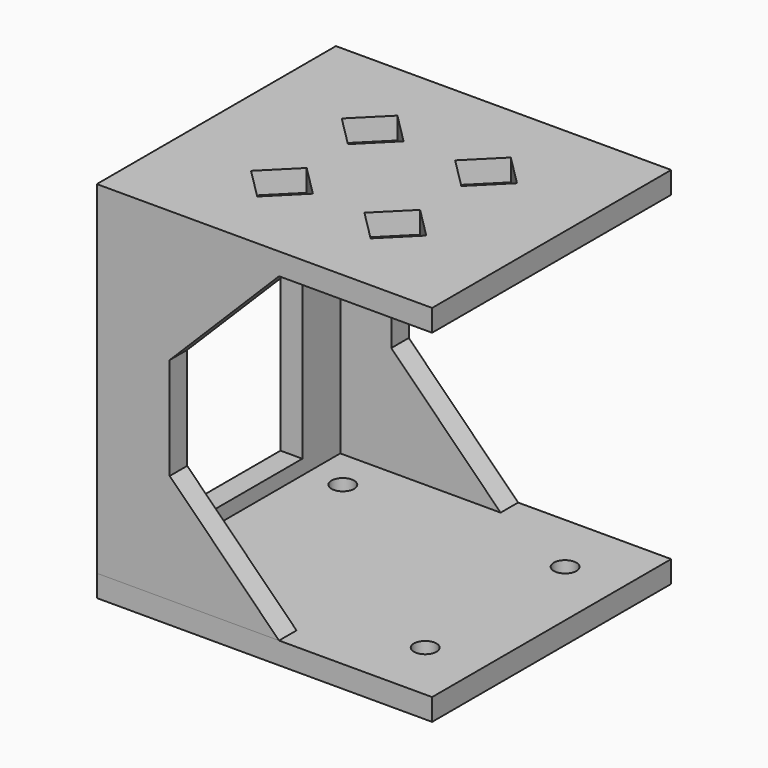
from build123d import *

# Parameters (mm, degrees)
SKETCH033_W     = 46
SKETCH033_H     = 41
PAD022_DEPTH    = 3
POCKET011_DEPTH = 5
PAD023_DEPTH    = 47
SKETCH036_W     = 46
SKETCH036_H     = 41
PAD024_DEPTH    = 3
SKETCH037_R     = 1.55
POCKET012_DEPTH = 5
POCKET013_DEPTH = 41.001
SKETCH039_W     = 22
SKETCH039_H     = 40
POCKET014_DEPTH = 5


with BuildPart() as part:
    # Sketch033 (on Face1 of Binder006) → Pad022 (new body)
    with BuildSketch(Plane(origin=(0, 0, 3.2), x_dir=(1, 0, 0), z_dir=(0, 0, -1))):
        with Locations((-83.6396103068, -83.6396103068)):
            Rectangle(SKETCH033_W, SKETCH033_H)
    extrude(amount=PAD022_DEPTH)

    # Sketch034 → Pocket011 (cut)
    with BuildSketch(Plane.XY):
        Polygon((-91.4177848998, 95.660425587), (-95.660425587, 91.4177848998), (-91.4177848998, 87.1751442127), (-87.1751442127, 91.4177848998), align=None)
        Polygon((-75.8614357137, 95.660425587), (-80.1040764009, 91.4177848998), (-75.8614357137, 87.1751442127), (-71.6187950266, 91.4177848998), align=None)
        Polygon((-91.4177848998, 80.1040764009), (-95.660425587, 75.8614357137), (-91.4177848998, 71.6187950266), (-87.1751442127, 75.8614357137), align=None)
        Polygon((-80.1040764009, 75.8614357137), (-75.8614357137, 71.6187950266), (-71.6187950266, 75.8614357137), (-75.8614357137, 80.1040764009), align=None)
    extrude(amount=POCKET011_DEPTH, mode=Mode.SUBTRACT)

    # Sketch035 (on Face5 of Pocket011) → Pad023 (join)
    with BuildSketch(Plane(origin=(0, 0, 0.2), x_dir=(1, 0, 0), z_dir=(0, 0, -1))):
        Polygon((-60.6396103068, -63.1396103068), (-106.6396103068, -63.1396103068), (-106.6396103068, -104.1396103068), (-60.6396103068, -104.1396103068), (-60.6396103068, -101.1396103068), (-103.6396103068, -101.1396103068), (-103.6396103068, -66.1396103068), (-60.6396103068, -66.1396103068), align=None)
    extrude(amount=PAD023_DEPTH)

    # Sketch036 (on Face20 of Pad023) → Pad024 (join)
    with BuildSketch(Plane(origin=(0, 0, -46.8), x_dir=(1, 0, 0), z_dir=(0, 0, -1))):
        with Locations((-83.63961, -83.63961)):
            Rectangle(SKETCH036_W, SKETCH036_H)
    extrude(amount=-PAD024_DEPTH)

    # Sketch037 (on Face27 of Pad024) → Pocket012 (cut)
    with BuildSketch(Plane(origin=(0, 0, -46.8), x_dir=(1, 0, 0), z_dir=(0, 0, -1))):
        with Locations((-98.8896103068, -71.6396103068)):
            Circle(SKETCH037_R)
        with Locations((-68.3896103068, -71.6396103068)):
            Circle(SKETCH037_R)
        with Locations((-98.8896103068, -95.6396103068)):
            Circle(SKETCH037_R)
        with Locations((-68.3896103068, -95.6396103068)):
            Circle(SKETCH037_R)
    extrude(amount=-POCKET012_DEPTH, mode=Mode.SUBTRACT)

    # Sketch038 (on Face27 of Pocket012) → Pocket013 (cut, through all)
    with BuildSketch(Plane(origin=(0, 104.1396103068, 0), x_dir=(-1, 0, 0), z_dir=(0, 1, 0))):
        Polygon((81.6396103068, 0.2), (59.6396103068, 0.2), (59.6396103068, -43.8), (81.6396103068, -43.8), (96.6396103068, -28.8), (96.6396103068, -14.8), align=None)
    extrude(amount=-POCKET013_DEPTH, mode=Mode.SUBTRACT)

    # Sketch039 (on Face30 of Pocket013) → Pocket014 (cut)
    with BuildSketch(Plane(origin=(-106.6396103068, 0, 0), x_dir=(0, -1, 0), z_dir=(-1, 0, 0))):
        with Locations((-83.6396103068, -21.8)):
            Rectangle(SKETCH039_W, SKETCH039_H)
    extrude(amount=-POCKET014_DEPTH, mode=Mode.SUBTRACT)


solid = part.part
